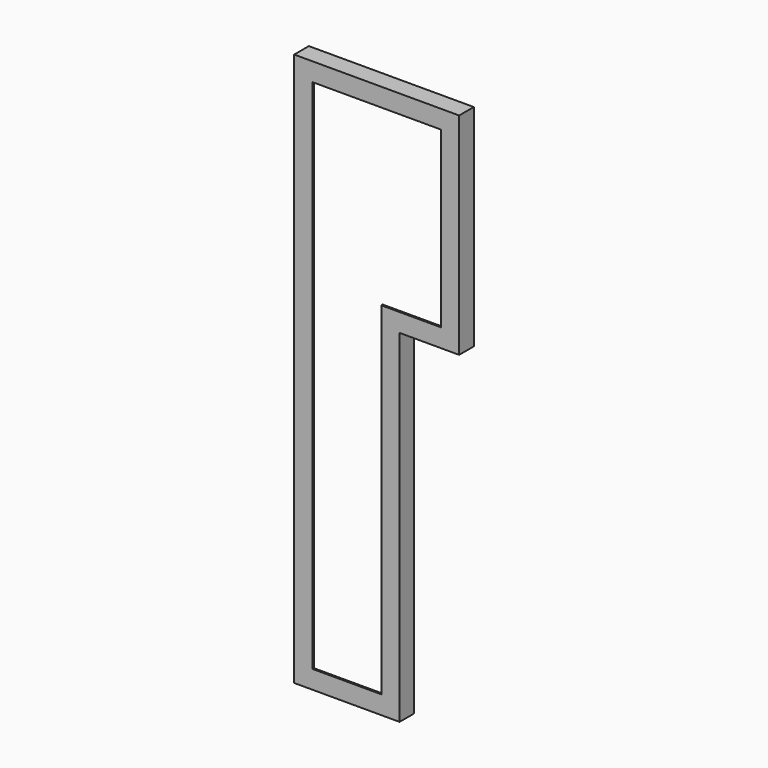
from build123d import *

# Parameters (mm, degrees)
F1_DEPTH = 4.7625
F3_DEPTH = 46.0375


with BuildPart() as f1:
    # F0 (on Front) → F1 (new body)
    with BuildSketch(Plane.XZ):
        Polygon((165.1, 0), (165.1, 584.2), (-292.1, 584.2), (-292.1, -949.325), (0, -949.325), (0, 0), align=None)
        Polygon((-241.3, 533.4), (114.3, 533.4), (114.3, 50.8), (-50.8, 50.8), (-50.8, -898.525), (-241.3, -898.525), align=None, mode=Mode.SUBTRACT)
    extrude(amount=F1_DEPTH)

    # F2 (on face) → F3 (join)
    with BuildSketch(Plane(origin=(0, 0, 0), x_dir=(-1, 0, 0), z_dir=(0, 1, 0))):
        Polygon((292.1, 584.2), (-165.1, 584.2), (-165.1, 0), (0, 0), (0, -949.325), (292.1, -949.325), align=None)
        Polygon((4.7625, -944.5625), (4.7625, 4.7625), (-160.3375, 4.7625), (-160.3375, 579.4375), (287.3375, 579.4375), (287.3375, -944.5625), align=None, mode=Mode.SUBTRACT)
    extrude(amount=F3_DEPTH)


solid = f1.part
